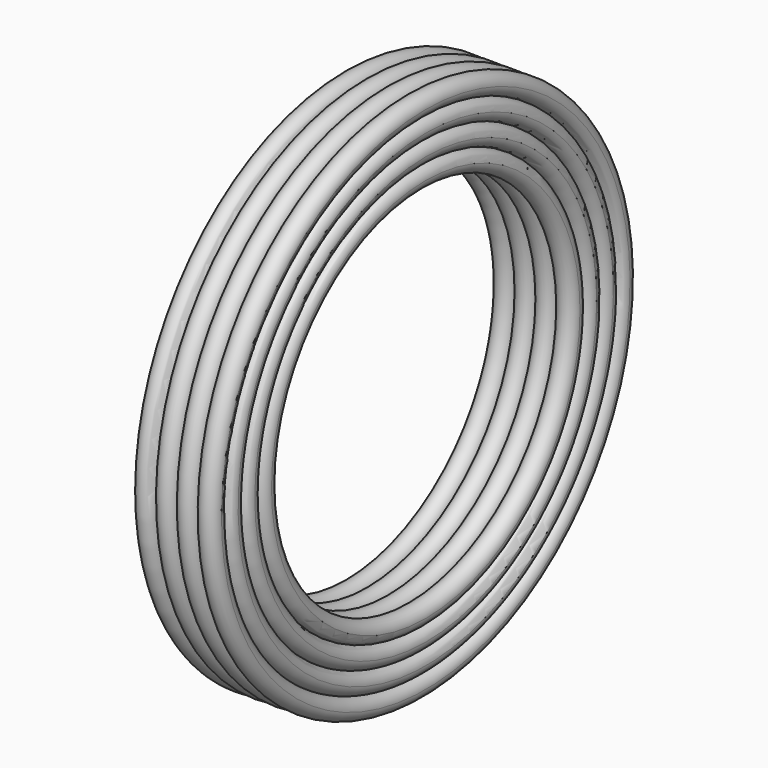
from build123d import *


with BuildPart() as f1:
    # F0 (on Front) → F1 (revolve)
    with BuildSketch(Plane.XZ):
        with BuildLine():
            ThreePointArc((10.16, -7.62), (9.4160512276, -5.8239487792), (7.6200000095, -5.08))
            ThreePointArc((7.6200000095, -5.08), (5.8239487792, -5.8239487724), (5.08, -7.62))
            ThreePointArc((5.08, -7.62), (7.62, -10.16), (10.16, -7.62))
        make_face()
        with BuildLine():
            ThreePointArc((10.16, 7.62), (7.62, 10.16), (5.08, 7.62))
            ThreePointArc((5.08, 7.62), (5.8239487758, 5.8239487758), (7.62, 5.08))
            ThreePointArc((7.62, 5.08), (9.4160512242, 5.8239487758), (10.16, 7.62))
        make_face()
        with BuildLine():
            ThreePointArc((-7.62, 5.08), (-5.8239487758, 5.8239487758), (-5.08, 7.62))
            ThreePointArc((-5.08, 7.62), (-9.4160512242, 9.4160512242), (-7.62, 5.08))
        make_face()
        with BuildLine():
            ThreePointArc((-5.08, -7.62), (-5.8239487758, -5.8239487758), (-7.62, -5.08))
            ThreePointArc((-7.62, -5.08), (-9.4160512242, -9.4160512242), (-5.08, -7.62))
        make_face()
        with BuildLine():
            ThreePointArc((7.6199999905, 0), (5.8239487724, -0.7439487792), (5.08, -2.54))
            ThreePointArc((5.08, -2.54), (5.8239487792, -4.3360512276), (7.6200000095, -5.08))
            ThreePointArc((7.6200000095, -5.08), (9.4160512276, -4.3360512208), (10.16, -2.54))
            ThreePointArc((10.16, -2.54), (9.4160512208, -0.7439487724), (7.6199999905, 0))
        make_face()
        with BuildLine():
            ThreePointArc((5.08, 2.54), (4.3360512242, 0.7439487758), (2.54, 0))
            ThreePointArc((2.54, 0), (4.3360512242, -0.7439487758), (5.08, -2.54))
            ThreePointArc((5.08, -2.54), (5.8239487724, -0.7439487792), (7.6199999905, 0))
            ThreePointArc((7.6199999905, 0), (5.8239487724, 0.7439487792), (5.08, 2.54))
        make_face()
        with BuildLine():
            ThreePointArc((7.6200000095, -5.08), (5.8239487792, -4.3360512276), (5.08, -2.54))
            ThreePointArc((5.08, -2.54), (4.3360512242, -4.3360512242), (2.54, -5.08))
            ThreePointArc((2.54, -5.08), (4.3360512242, -5.8239487758), (5.08, -7.62))
            ThreePointArc((5.08, -7.62), (5.8239487792, -5.8239487724), (7.6200000095, -5.08))
        make_face()
        with BuildLine():
            ThreePointArc((7.62, 5.08), (5.8239487758, 4.3360512242), (5.08, 2.54))
            ThreePointArc((5.08, 2.54), (5.8239487724, 0.7439487792), (7.6199999905, 0))
            ThreePointArc((7.6199999905, 0), (9.4160512208, 0.7439487724), (10.16, 2.54))
            ThreePointArc((10.16, 2.54), (9.4160512242, 4.3360512242), (7.62, 5.08))
        make_face()
        with BuildLine():
            ThreePointArc((0, 7.62), (0.7439487779, 5.8239487737), (2.5400000059, 5.08))
            ThreePointArc((2.5400000059, 5.08), (4.3360512263, 5.8239487779), (5.08, 7.62))
            ThreePointArc((5.08, 7.62), (2.54, 10.16), (0, 7.62))
        make_face()
        with BuildLine():
            ThreePointArc((-2.54, -5.08), (-4.3360512242, -4.3360512242), (-5.08, -2.54))
            ThreePointArc((-5.08, -2.54), (-5.8239487758, -4.3360512242), (-7.62, -5.08))
            ThreePointArc((-7.62, -5.08), (-5.8239487758, -5.8239487758), (-5.08, -7.62))
            ThreePointArc((-5.08, -7.62), (-4.3360512242, -5.8239487758), (-2.54, -5.08))
        make_face()
        with BuildLine():
            ThreePointArc((5.08, -7.62), (4.3360512242, -5.8239487758), (2.54, -5.08))
            ThreePointArc((2.54, -5.08), (0.7439487758, -5.8239487758), (0, -7.62))
            ThreePointArc((0, -7.62), (2.54, -10.16), (5.08, -7.62))
        make_face()
        with BuildLine():
            ThreePointArc((-5.08, 7.62), (-4.3360512221, 5.8239487737), (-2.5399999941, 5.08))
            ThreePointArc((-2.5399999941, 5.08), (-0.7439487737, 5.8239487779), (0, 7.62))
            ThreePointArc((0, 7.62), (-2.54, 10.16), (-5.08, 7.62))
        make_face()
        with BuildLine():
            ThreePointArc((-7.62, 0), (-5.8239487758, 0.7439487758), (-5.08, 2.54))
            ThreePointArc((-5.08, 2.54), (-5.8239487758, 4.3360512242), (-7.62, 5.08))
            ThreePointArc((-7.62, 5.08), (-10.16, 2.54), (-7.62, 0))
        make_face()
        with BuildLine():
            ThreePointArc((-7.62, -5.08), (-5.8239487758, -4.3360512242), (-5.08, -2.54))
            ThreePointArc((-5.08, -2.54), (-5.8239487758, -0.7439487758), (-7.62, 0))
            ThreePointArc((-7.62, 0), (-10.16, -2.54), (-7.62, -5.08))
        make_face()
        with BuildLine():
            ThreePointArc((0, -7.62), (-0.7439487758, -5.8239487758), (-2.54, -5.08))
            ThreePointArc((-2.54, -5.08), (-4.3360512242, -5.8239487758), (-5.08, -7.62))
            ThreePointArc((-5.08, -7.62), (-2.54, -10.16), (0, -7.62))
        make_face()
        with BuildLine():
            ThreePointArc((5.08, 7.62), (4.3360512263, 5.8239487779), (2.5400000059, 5.08))
            ThreePointArc((2.5400000059, 5.08), (4.3360512263, 4.3360512221), (5.08, 2.54))
            ThreePointArc((5.08, 2.54), (5.8239487758, 4.3360512242), (7.62, 5.08))
            ThreePointArc((7.62, 5.08), (5.8239487758, 5.8239487758), (5.08, 7.62))
        make_face()
        with BuildLine():
            ThreePointArc((2.54, -5.08), (0.7439487758, -4.3360512242), (0, -2.54))
            ThreePointArc((0, -2.54), (-0.7439487758, -4.3360512242), (-2.54, -5.08))
            ThreePointArc((-2.54, -5.08), (-0.7439487758, -5.8239487758), (0, -7.62))
            ThreePointArc((0, -7.62), (0.7439487758, -5.8239487758), (2.54, -5.08))
        make_face()
        with BuildLine():
            ThreePointArc((-5.08, -2.54), (-4.3360512242, -0.7439487758), (-2.54, 0))
            ThreePointArc((-2.54, 0), (-4.3360512242, 0.7439487758), (-5.08, 2.54))
            ThreePointArc((-5.08, 2.54), (-5.8239487758, 0.7439487758), (-7.62, 0))
            ThreePointArc((-7.62, 0), (-5.8239487758, -0.7439487758), (-5.08, -2.54))
        make_face()
        with BuildLine():
            ThreePointArc((-2.5399999941, 5.08), (-0.7439487737, 4.3360512221), (0, 2.54))
            ThreePointArc((0, 2.54), (0.7439487779, 4.3360512263), (2.5400000059, 5.08))
            ThreePointArc((2.5400000059, 5.08), (0.7439487779, 5.8239487737), (0, 7.62))
            ThreePointArc((0, 7.62), (-0.7439487737, 5.8239487779), (-2.5399999941, 5.08))
        make_face()
        with BuildLine():
            ThreePointArc((5.08, -2.54), (4.3360512242, -0.7439487758), (2.54, 0))
            ThreePointArc((2.54, 0), (0.7439487758, -0.7439487758), (0, -2.54))
            ThreePointArc((0, -2.54), (0.7439487758, -4.3360512242), (2.54, -5.08))
            ThreePointArc((2.54, -5.08), (4.3360512242, -4.3360512242), (5.08, -2.54))
        make_face()
        with BuildLine():
            ThreePointArc((-5.08, 2.54), (-4.3360512221, 4.3360512263), (-2.5399999941, 5.08))
            ThreePointArc((-2.5399999941, 5.08), (-4.3360512221, 5.8239487737), (-5.08, 7.62))
            ThreePointArc((-5.08, 7.62), (-5.8239487758, 5.8239487758), (-7.62, 5.08))
            ThreePointArc((-7.62, 5.08), (-5.8239487758, 4.3360512242), (-5.08, 2.54))
        make_face()
        with BuildLine():
            ThreePointArc((2.54, 0), (0.7439487758, 0.7439487758), (0, 2.54))
            ThreePointArc((0, 2.54), (-0.7439487758, 0.7439487758), (-2.54, 0))
            ThreePointArc((-2.54, 0), (-0.7439487758, -0.7439487758), (0, -2.54))
            ThreePointArc((0, -2.54), (0.7439487758, -0.7439487758), (2.54, 0))
        make_face()
        with BuildLine():
            ThreePointArc((-2.54, 0), (-0.7439487758, 0.7439487758), (0, 2.54))
            ThreePointArc((0, 2.54), (-0.7439487737, 4.3360512221), (-2.5399999941, 5.08))
            ThreePointArc((-2.5399999941, 5.08), (-4.3360512221, 4.3360512263), (-5.08, 2.54))
            ThreePointArc((-5.08, 2.54), (-4.3360512242, 0.7439487758), (-2.54, 0))
        make_face()
        with BuildLine():
            ThreePointArc((2.5400000059, 5.08), (0.7439487779, 4.3360512263), (0, 2.54))
            ThreePointArc((0, 2.54), (0.7439487758, 0.7439487758), (2.54, 0))
            ThreePointArc((2.54, 0), (4.3360512242, 0.7439487758), (5.08, 2.54))
            ThreePointArc((5.08, 2.54), (4.3360512263, 4.3360512221), (2.5400000059, 5.08))
        make_face()
        with BuildLine():
            ThreePointArc((0, -2.54), (-0.7439487758, -0.7439487758), (-2.54, 0))
            ThreePointArc((-2.54, 0), (-4.3360512242, -0.7439487758), (-5.08, -2.54))
            ThreePointArc((-5.08, -2.54), (-4.3360512242, -4.3360512242), (-2.54, -5.08))
            ThreePointArc((-2.54, -5.08), (-0.7439487758, -4.3360512242), (0, -2.54))
        make_face()
    revolve(axis=Axis((-6.9192871451, 0, -54.61), (-1, 0, 0)))


solid = f1.part
